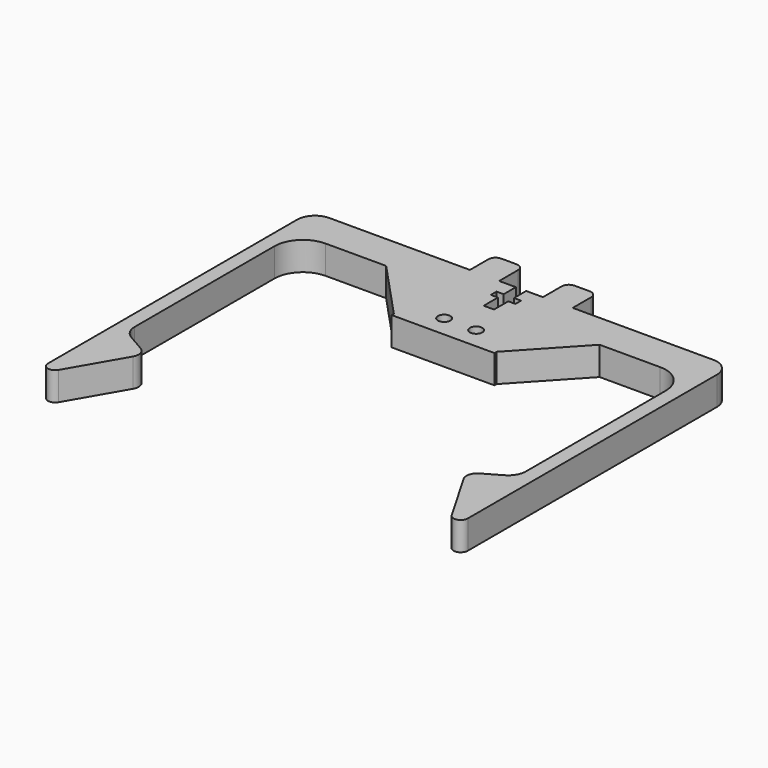
from build123d import *

# Parameters (mm, degrees)
F0_R     = 1.75
F1_DEPTH = 8
F3_DEPTH = 8


with BuildPart() as f1:
    # F0 (on Top) → F1 (new body)
    with BuildSketch(Plane.XY):
        with BuildLine():
            Line((-8.15, -10), (-12.45, -10))
            ThreePointArc((-12.45, -10), (-13.8642135624, -10.5857864376), (-14.45, -12))
            Line((-14.45, -12), (-14.45, -46))
            Line((-14.45, -46), (14.45, -46))
            Line((14.45, -46), (14.45, -12))
            ThreePointArc((14.45, -12), (13.8642135624, -10.5857864376), (12.45, -10))
            Line((12.45, -10), (8.15, -10))
            ThreePointArc((8.15, -10), (6.7357864376, -10.5857864376), (6.15, -12))
            Line((6.15, -12), (6.15, -18.6))
            Line((6.15, -18.6), (1.45, -18.6))
            Line((1.45, -18.6), (1.45, -22.9))
            Line((1.45, -22.9), (3.45, -22.9))
            Line((3.45, -22.9), (3.45, -24.9))
            Line((3.45, -24.9), (1.45, -24.9))
            Line((1.45, -24.9), (1.45, -29.9))
            Line((1.45, -29.9), (-1.45, -29.9))
            Line((-1.45, -29.9), (-1.45, -24.9))
            Line((-1.45, -24.9), (-3.45, -24.9))
            Line((-3.45, -24.9), (-3.45, -22.9))
            Line((-3.45, -22.9), (-1.45, -22.9))
            Line((-1.45, -22.9), (-1.45, -18.6))
            Line((-1.45, -18.6), (-6.15, -18.6))
            Line((-6.15, -18.6), (-6.15, -12))
            ThreePointArc((-6.15, -12), (-6.7357864376, -10.5857864376), (-8.15, -10))
        make_face()
        with Locations((-4.5, -40)):
            Circle(F0_R, mode=Mode.SUBTRACT)
        with Locations((4.5, -40)):
            Circle(F0_R, mode=Mode.SUBTRACT)
    extrude(amount=F1_DEPTH)

    # F2 (on Top) → F3 (join)
    with BuildSketch(Plane.XY):
        with BuildLine():
            Line((-14.2, -45.5), (-10.8380588046, -18.5))
            Line((-10.8380588046, -18.5), (-54, -18.5))
            ThreePointArc((-54, -18.5), (-57.5355339059, -19.9644660941), (-59, -23.5))
            Line((-59, -23.5), (-59, -111.0581123827))
            ThreePointArc((-59, -111.0581123827), (-57.5176380902, -112.9899640353), (-55.2679491924, -112.0581123827))
            Line((-55.2679491924, -112.0581123827), (-46.5, -96.8715789032))
            ThreePointArc((-46.5, -96.8715789032), (-46.2002987325, -94.5951217679), (-47.5980762114, -92.7735026919))
            Line((-47.5980762114, -92.7735026919), (-52.5, -89.943375673))
            ThreePointArc((-52.5, -89.943375673), (-54.3301270189, -88.1132486541), (-55, -85.6132486541))
            Line((-55, -85.6132486541), (-55, -36.5))
            ThreePointArc((-55, -36.5), (-52.6568542495, -30.8431457505), (-47, -28.5))
            Line((-47, -28.5), (-30, -28.5))
            Line((-30, -28.5), (-14.2, -45.5))
        make_face()
    extrude(amount=F3_DEPTH)

    # F4: F1 across plane


with BuildPart() as f1_1:
    add(f1.part)
    add(f1.part.mirror(Plane.YZ))


solid = f1_1.part
